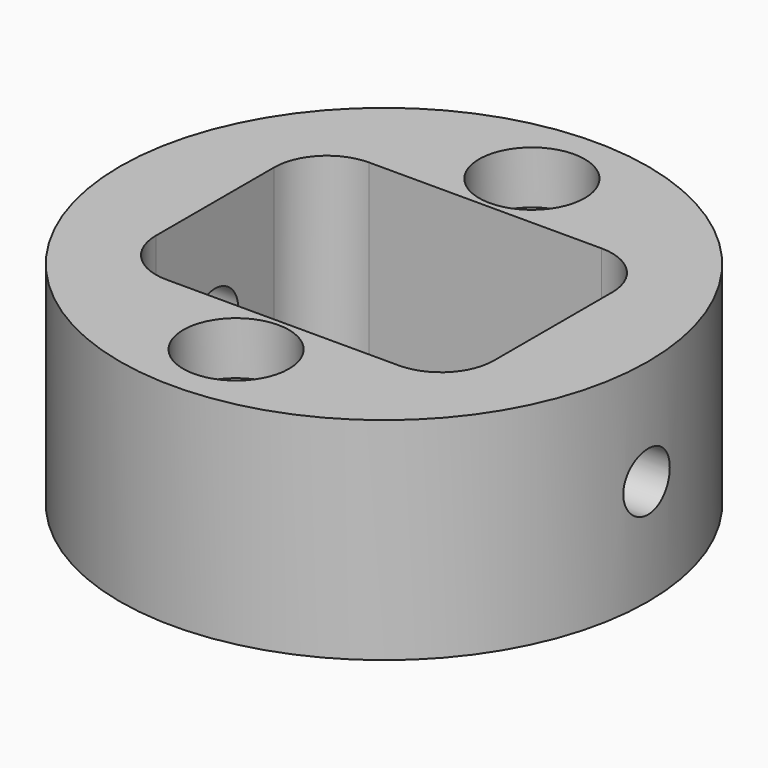
from build123d import *

# Parameters (mm, degrees)
F0_R           = 25
F0_W           = 32
F0_H           = 24
F1_DEPTH       = 20
F3_D           = 5
F3_CBORE_D     = 10
F3_CBORE_DEPTH = 5
F6_D           = 5.5
F7_R           = 5


with BuildPart() as f1:
    # F0 (on Top) → F1 (new body)
    with BuildSketch(Plane.XY):
        Circle(F0_R)
        Rectangle(F0_W, F0_H, mode=Mode.SUBTRACT)
    extrude(amount=F1_DEPTH)

    # F3 (through all)
    with Locations(Plane.XY.offset(20)):
        with Locations((0, 17.5), (0, -17.5)):
            CounterBoreHole(F3_D / 2, F3_CBORE_D / 2, F3_CBORE_DEPTH)

    # F6 (through all)
    with Locations(Plane(origin=(-34, 0, 0), x_dir=(0, -1, 0), z_dir=(-1, 0, 0))):
        with Locations((0, 10)):
            Hole(F6_D / 2)

    # F7
    f7_edges = [f1.edges().sort_by_distance(p)[0] for p in [
        (16, 12, 10),
        (-16, 12, 10),
        (-16, -12, 10),
        (16, -12, 10),
    ]]
    fillet(f7_edges, radius=F7_R)


solid = f1.part
